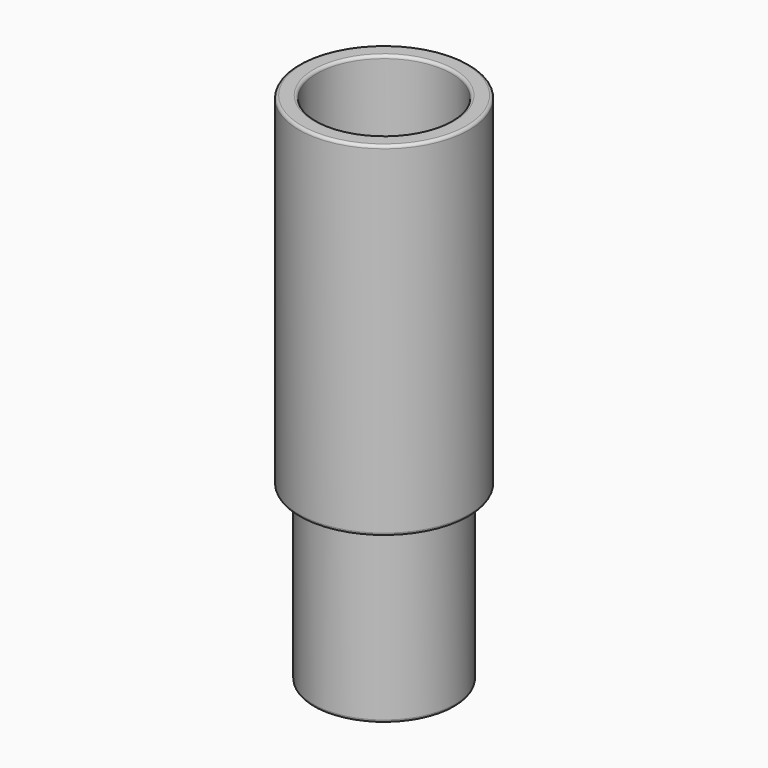
from build123d import *

# Parameters (mm, degrees)
F0_R     = 2.475
F1_DEPTH = 6
F2_R     = 2.975
F3_DEPTH = 12
F4_R     = 2.35
F5_DEPTH = 6
F6_R     = 0.1


with BuildPart() as f1:
    # F0 (on Top) → F1 (new body)
    with BuildSketch(Plane.XY):
        Circle(F0_R)
    extrude(amount=F1_DEPTH)

    # F2 (on face) → F3 (join)
    with BuildSketch(Plane.XY.offset(6)):
        Circle(F2_R)
    extrude(amount=F3_DEPTH)

    # F4 (on face) → F5 (cut)
    with BuildSketch(Plane.XY.offset(18)):
        Circle(F4_R)
    extrude(amount=-F5_DEPTH, mode=Mode.SUBTRACT)

    # F6
    f6_edges = [f1.edges().sort_by_distance(p)[0] for p in [
        (-2.475, 0, 0),
        (-2.975, 0, 18),
        (-2.35, 0, 18),
        (-2.975, 0, 6),
        (-2.475, 0, 6),
    ]]
    fillet(f6_edges, radius=F6_R)


solid = f1.part
